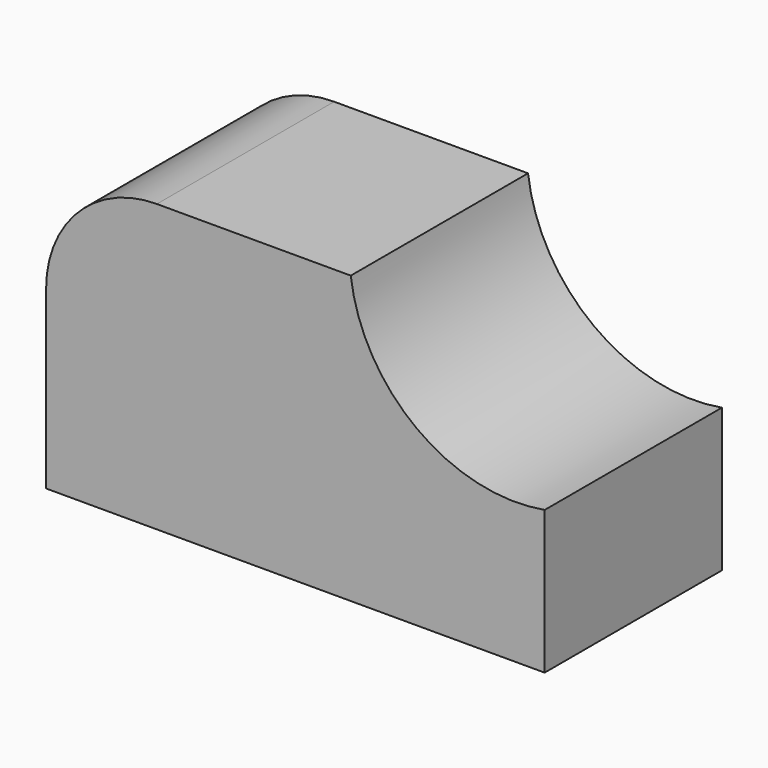
from build123d import *

# Parameters (mm, degrees)
F1_DEPTH = 25.4
F3_DEPTH = 25.4


with BuildPart() as f1:
    # F0 (on Front) → F1 (new body)
    with BuildSketch(Plane.XZ):
        with BuildLine():
            Line((0, 20.139488), (0, 0))
            Line((0, 0), (57.15, 0))
            Line((57.15, 0), (57.15, 32.839488))
            Line((57.15, 32.839488), (12.7, 32.839488))
            ThreePointArc((12.7, 32.839488), (3.719744, 29.119744), (0, 20.139488))
        make_face()
    extrude(amount=F1_DEPTH)

    # F2 (on face) → F3 (cut)
    with BuildSketch(Plane.XZ.offset(25.4)):
        with BuildLine():
            Line((57.15, 32.839488), (34.925, 32.839488))
            ThreePointArc((34.925, 32.839488), (42.511039, 19.856363), (57.15, 16.419744))
            Line((57.15, 16.419744), (57.15, 32.839488))
        make_face()
    extrude(amount=-F3_DEPTH, mode=Mode.SUBTRACT)


solid = f1.part
